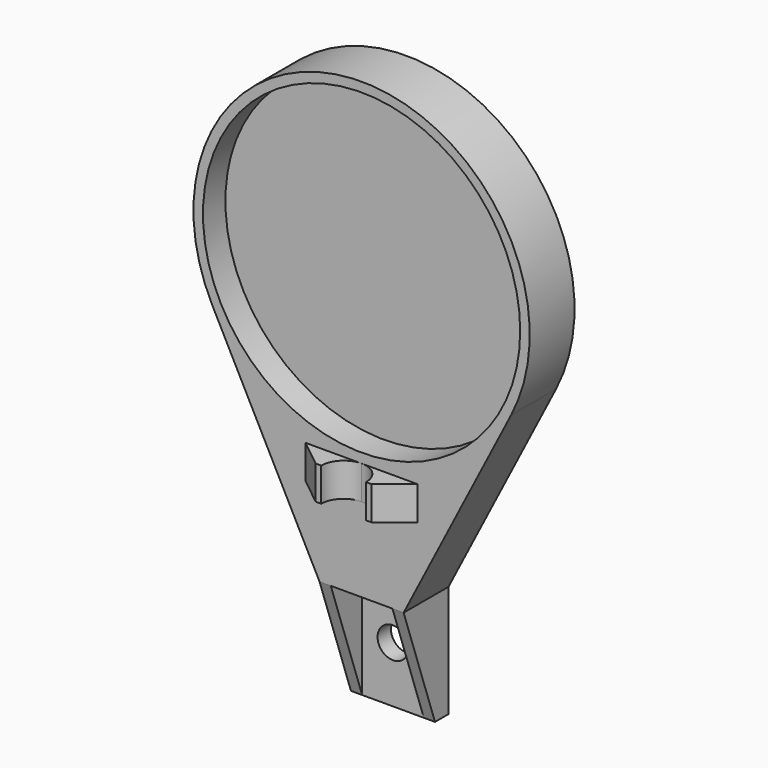
from build123d import *

# Parameters (mm, degrees)
SKETCH_W     = 15
SKETCH_H     = 50
SKETCH_R     = 2.75
PAD_DEPTH    = 3
PAD002_DEPTH = 10
SKETCH004_R  = 28.3
POCKET_DEPTH = 5
PAD003_DEPTH = 3
PAD004_DEPTH = 2


with BuildPart() as part:
    # Sketch → Pad (new body)
    with BuildSketch(Plane.XZ):
        with Locations((0, 15)):
            Rectangle(SKETCH_W, SKETCH_H)
        Circle(SKETCH_R, mode=Mode.SUBTRACT)
    extrude(amount=PAD_DEPTH)

    # Sketch003 → Pad002 (join)
    with BuildSketch(Plane.XZ):
        with BuildLine():
            ThreePointArc((26.676803, 47.276), (0, 91), (-26.676803, 47.276))
            Line((-26.676803, 47.276), (-7.5, 10))
            Line((-7.5, 10), (7.5, 10))
            Line((7.5, 10), (26.676803, 47.276))
        make_face()
    extrude(amount=PAD002_DEPTH)

    # Sketch004 (on DatumPlane) → Pocket (cut)
    with BuildSketch(Plane.XZ.offset(5)):
        with Locations((0, 61)):
            Circle(SKETCH004_R)
    extrude(amount=POCKET_DEPTH, mode=Mode.SUBTRACT)

    # Sketch006 (on DatumPlane) → Pad003 (join, symmetric)
    with BuildSketch(Plane.XY.offset(28)):
        with BuildLine():
            ThreePointArc((0, -10), (-2.828427, -11.171573), (-4, -14))
            Line((-4, -14), (-5, -14))
            Line((-5, -14), (-10, -10))
            Line((-10, -10), (0, -10))
        make_face()
    pad003 = extrude(amount=PAD003_DEPTH, both=True)

    # Mirrored: Pad003 across Sketch006 V_Axis
    add(pad003.mirror(Plane(origin=(0, 0, 28), x_dir=(0, 0, 1), z_dir=(1, 0, 0))))

    # Sketch007 (on DatumPlane) → Pad004 (join)
    with BuildSketch(Plane.YZ.offset(7.5)):
        Polygon((-3, -10), (-10, 10), (0, 10), (0, -10), align=None)
    pad004 = extrude(amount=-PAD004_DEPTH)

    # Mirrored001: Pad004 across YZ
    add(pad004.mirror(Plane.YZ))


solid = part.part
